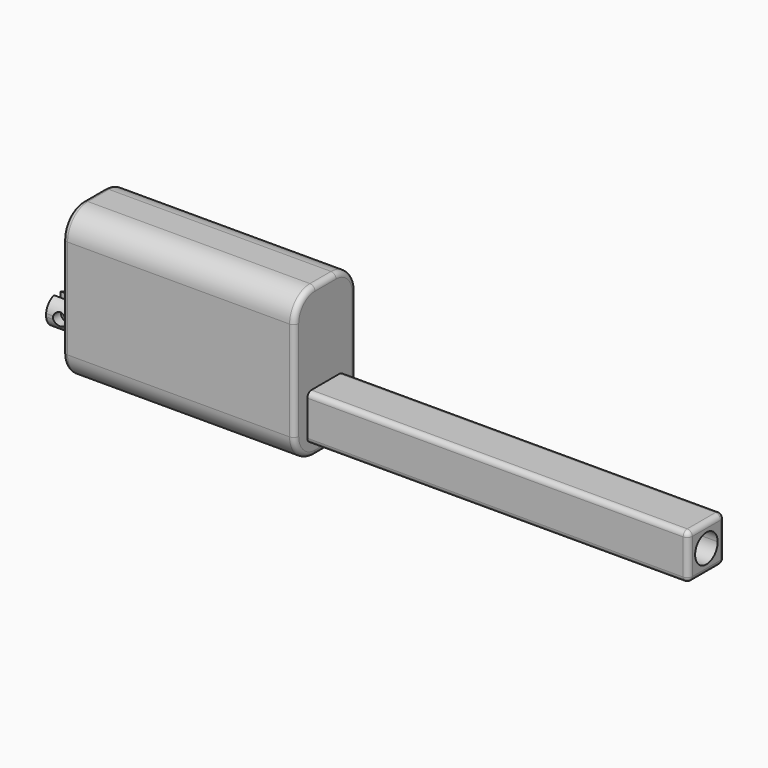
from build123d import *

# Parameters (mm, degrees)
F0_W      = 229
F0_H      = 148
F1_DEPTH  = 38
F3_DEPTH  = 35.6
F5_DEPTH  = 35
F7_D      = 12.2
F9_DEPTH  = 375.8
F11_R     = 25
F12_R     = 5
F13_DEPTH = 400
F15_DEPTH = 27.5


with BuildPart() as f1:
    # F0 (on Front) → F1 (new body, symmetric)
    with BuildSketch(Plane.XZ):
        Rectangle(F0_W, F0_H)
    extrude(amount=F1_DEPTH, both=True)

    # F2 (on face) → F3 (join)
    with BuildSketch(Plane(origin=(-114.5, 0, 0), x_dir=(0, -1, 0), z_dir=(-1, 0, 0))):
        with BuildLine():
            ThreePointArc((13.9, -37.4), (-9.8287842585, -27.5712157415), (0, -51.3))
            ThreePointArc((0, -51.3), (9.8287842585, -47.2287842585), (13.9, -37.4))
        make_face()
    extrude(amount=F3_DEPTH)

    # F4 (on face) → F5 (cut)
    with BuildSketch(Plane(origin=(-150.1, 0, 0), x_dir=(0, -1, 0), z_dir=(-1, 0, 0))):
        with BuildLine():
            ThreePointArc((13.9, -37.4), (13.8796920991, -36.6489026467), (13.8188277361, -35.9))
            Line((13.8188277361, -35.9), (13.8188277361, -38.9))
            ThreePointArc((13.8188277361, -38.9), (13.8796920991, -38.1510973533), (13.9, -37.4))
        make_face()
    extrude(amount=-F5_DEPTH, mode=Mode.SUBTRACT)

    # F7 (through all)
    with Locations(Plane.XZ.offset(13.8188277361)):
        with Locations((-137.1, -37.4)):
            Hole(F7_D / 2)

    # F8 (on face) → F9 (join)
    with BuildSketch(Plane.YZ.offset(114.5)):
        Polygon((-22.4, -59.8), (0, -59.8), (22.4, -59.8), (22.4, -15), (-22.4, -15), align=None)
    extrude(amount=F9_DEPTH)

    # F11
    f11_edges = [f1.edges().sort_by_distance(p)[0] for p in [
        (0, -38, 74),
        (0, 38, 74),
        (0, -38, -74),
        (0, 38, -74),
    ]]
    fillet(f11_edges, radius=F11_R)

    # F12
    f12_edges = [f1.edges().sort_by_distance(p)[0] for p in [
        (302.4, -22.4, -15),
        (302.4, 22.4, -15),
        (302.4, -22.4, -59.8),
        (302.4, 22.4, -59.8),
        (114.5, 38, 0),
        (-114.5, 38, 0),
        (490.3, 22.4, -37.4),
        (490.3, 0, -59.8),
        (490.3, 0, -15),
        (490.3, -22.4, -37.4),
    ]]
    fillet(f12_edges, radius=F12_R)

    # F10 (on face) → F13 (cut)
    with BuildSketch(Plane.YZ.offset(490.3)):
        with BuildLine():
            ThreePointArc((13.9, -37.4), (9.8287842585, -27.5712157415), (0, -23.5))
            ThreePointArc((0, -23.5), (-9.8287842585, -47.2287842585), (13.9, -37.4))
        make_face()
    extrude(amount=-F13_DEPTH, mode=Mode.SUBTRACT)

    # F14 (on face) → F15 (cut)
    with BuildSketch(Plane(origin=(-150.1, 0, 0), x_dir=(0, -1, 0), z_dir=(-1, 0, 0))):
        with BuildLine():
            ThreePointArc((4.1, -24.1184338273), (0, -23.5), (-4.1, -24.1184338273))
            Line((-4.1, -24.1184338273), (-4.1, -50.6815661727))
            ThreePointArc((-4.1, -50.6815661727), (-2.0731895957, -51.1445219961), (0, -51.3))
            ThreePointArc((0, -51.3), (2.0731895957, -51.1445219961), (4.1, -50.6815661727))
            Line((4.1, -50.6815661727), (4.1, -24.1184338273))
        make_face()
    extrude(amount=-F15_DEPTH, mode=Mode.SUBTRACT)


solid = f1.part
